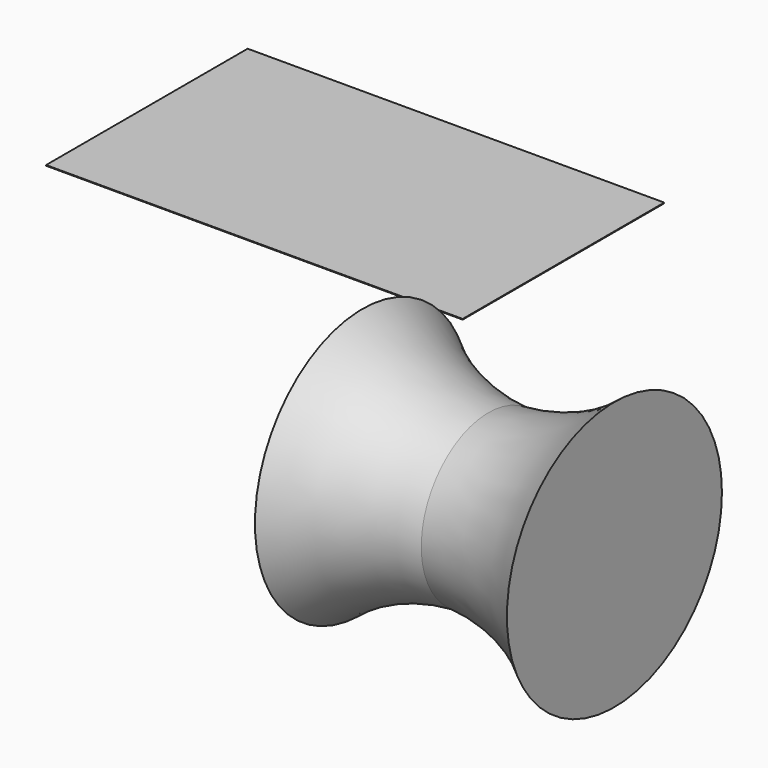
from build123d import *

# Parameters (mm, degrees)
F3_W     = 7.837419
F3_H     = 9.385435
F4_DEPTH = 0.254
F5_R     = 1.370395
F6_DEPTH = 0.254
F7_W     = 157.48
F7_H     = 95.25
F8_DEPTH = 0.254


with BuildPart() as f1:
    # F0 (on Top) → F1 (revolve)
    with BuildSketch(Plane.XY):
        with BuildLine():
            Line((-47.625, 0), (0, 0))
            Line((0, 0), (0, 50.8))
            ThreePointArc((0, 50.8), (-22.260562, 37.395156), (-47.625, 31.75))
            Line((-47.625, 31.75), (-47.625, 0))
        make_face()
    revolve(axis=Axis((-23.8125, 0, 0), (-1, 0, 0)))

    # F2: F1 across face


with BuildPart() as f1_1:
    add(f1.part)
    add(f1.part.mirror(Plane(origin=(-47.625, 0, 0), x_dir=(0, -1, 0), z_dir=(-1, 0, 0))))

    # F3 (on face) → F4 (cut)
    with BuildSketch(Plane(origin=(-95.25, 0, 0), x_dir=(0, -1, 0), z_dir=(-1, 0, 0))):
        with Locations((-34.919129, -4.692717)):
            Rectangle(F3_W, F3_H)
    extrude(amount=-F4_DEPTH, mode=Mode.SUBTRACT)

    # F5 (on face) → F6 (cut)
    with BuildSketch(Plane(origin=(-95.25, 0, 0), x_dir=(0, -1, 0), z_dir=(-1, 0, 0))):
        Circle(F5_R)
    extrude(amount=-F6_DEPTH, mode=Mode.SUBTRACT)


with BuildPart() as f8:
    # F7 (on Top) → F8 (new body)
    with BuildSketch(Plane.XY):
        with Locations((-207.528638, 136.902407)):
            Rectangle(F7_W, F7_H)
    extrude(amount=F8_DEPTH)


solid = Compound([f1_1.part, f8.part])
